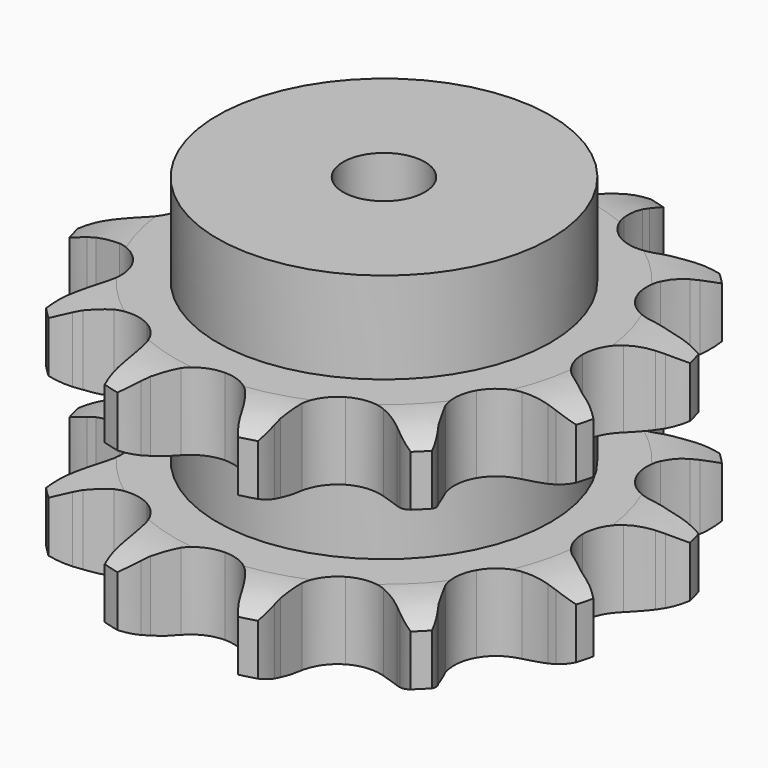
from build123d import *

# Parameters (mm, degrees)
PAD_DEPTH         = 72
SKETCH001_R       = 51
PAD001_DEPTH      = 100
SKETCH002_R       = 12.5
POCKET_DEPTH      = 0.001
POCKET_DEPTH_BACK = 100.001


with BuildPart() as part:
    # Sprocket → Pad (new body)
    with BuildSketch(Plane.XY):
        with BuildLine():
            ThreePointArc((-21.955666, 81.93966), (-18.069498, 78.407779), (-15.156646, 74.038365))
            Line((-15.156646, 74.038365), (-14.03252, 71.800045))
            ThreePointArc((-14.03252, 71.800045), (-12.10667, 68.464376), (-9.806595, 65.374838))
            ThreePointArc((-9.806595, 65.374838), (-5.41019, 62.001358), (0, 60.801948))
            ThreePointArc((0, 60.801948), (5.41019, 62.001358), (9.806595, 65.374838))
            ThreePointArc((9.806595, 65.374838), (12.10667, 68.464376), (14.03252, 71.800045))
            Line((14.03252, 71.800045), (15.156646, 74.038365))
            ThreePointArc((15.156646, 74.038365), (18.069498, 78.407779), (21.955666, 81.93966))
            ThreePointArc((21.955666, 81.93966), (23.555246, 76.937877), (23.893142, 71.697428))
            Line((23.893142, 71.697428), (23.747504, 69.196923))
            ThreePointArc((23.747504, 69.196923), (23.747504, 65.345224), (24.194659, 61.519568))
            ThreePointArc((24.194659, 61.519568), (26.315317, 56.399846), (30.400974, 52.656032))
            ThreePointArc((30.400974, 52.656032), (35.686041, 50.989656), (41.180179, 51.712973))
            Line((41.180179, 51.712973), (48.052541, 55.164403))
            ThreePointArc((48.052541, 55.164403), (49.085867, 55.872381), (50.145223, 56.540782))
            ThreePointArc((50.145223, 56.540782), (54.852533, 58.86838), (59.983994, 59.983994))
            ThreePointArc((59.983994, 59.983994), (58.86838, 54.852533), (56.540782, 50.145223))
            Line((56.540782, 50.145223), (55.164403, 48.052541))
            ThreePointArc((55.164403, 48.052541), (53.238554, 44.716872), (51.712973, 41.180179))
            ThreePointArc((51.712973, 41.180179), (50.989656, 35.686041), (52.656032, 30.400974))
            ThreePointArc((52.656032, 30.400974), (56.399846, 26.315317), (61.519568, 24.194659))
            Line((61.519568, 24.194659), (69.196923, 23.747504))
            ThreePointArc((69.196923, 23.747504), (70.445798, 23.843968), (71.697428, 23.893142))
            ThreePointArc((71.697428, 23.893142), (76.937877, 23.555246), (81.93966, 21.955666))
            ThreePointArc((81.93966, 21.955666), (78.407779, 18.069498), (74.038365, 15.156646))
            Line((74.038365, 15.156646), (71.800045, 14.03252))
            ThreePointArc((71.800045, 14.03252), (68.464376, 12.10667), (65.374838, 9.806595))
            ThreePointArc((65.374838, 9.806595), (62.001358, 5.41019), (60.801948, 0))
            ThreePointArc((60.801948, 0), (62.001358, -5.41019), (65.374838, -9.806595))
            Line((65.374838, -9.806595), (71.800045, -14.03252))
            ThreePointArc((71.800045, -14.03252), (72.929835, -14.573417), (74.038365, -15.156646))
            ThreePointArc((74.038365, -15.156646), (78.407779, -18.069498), (81.93966, -21.955666))
            ThreePointArc((81.93966, -21.955666), (76.937877, -23.555246), (71.697428, -23.893142))
            Line((71.697428, -23.893142), (69.196923, -23.747504))
            ThreePointArc((69.196923, -23.747504), (65.345224, -23.747504), (61.519568, -24.194659))
            ThreePointArc((61.519568, -24.194659), (56.399846, -26.315317), (52.656032, -30.400974))
            ThreePointArc((52.656032, -30.400974), (50.989656, -35.686041), (51.712973, -41.180179))
            Line((51.712973, -41.180179), (55.164403, -48.052541))
            ThreePointArc((55.164403, -48.052541), (55.872381, -49.085867), (56.540782, -50.145223))
            ThreePointArc((56.540782, -50.145223), (58.86838, -54.852533), (59.983994, -59.983994))
            ThreePointArc((59.983994, -59.983994), (54.852533, -58.86838), (50.145223, -56.540782))
            Line((50.145223, -56.540782), (48.052541, -55.164403))
            ThreePointArc((48.052541, -55.164403), (44.716872, -53.238554), (41.180179, -51.712973))
            ThreePointArc((41.180179, -51.712973), (35.686041, -50.989656), (30.400974, -52.656032))
            ThreePointArc((30.400974, -52.656032), (26.315317, -56.399846), (24.194659, -61.519568))
            Line((24.194659, -61.519568), (23.747504, -69.196923))
            ThreePointArc((23.747504, -69.196923), (23.843968, -70.445798), (23.893142, -71.697428))
            ThreePointArc((23.893142, -71.697428), (23.555246, -76.937877), (21.955666, -81.93966))
            ThreePointArc((21.955666, -81.93966), (18.069498, -78.407779), (15.156646, -74.038365))
            Line((15.156646, -74.038365), (14.03252, -71.800045))
            ThreePointArc((14.03252, -71.800045), (12.10667, -68.464376), (9.806595, -65.374838))
            ThreePointArc((9.806595, -65.374838), (5.41019, -62.001358), (0, -60.801948))
            ThreePointArc((0, -60.801948), (-5.41019, -62.001358), (-9.806595, -65.374838))
            Line((-9.806595, -65.374838), (-14.03252, -71.800045))
            ThreePointArc((-14.03252, -71.800045), (-14.573417, -72.929835), (-15.156646, -74.038365))
            ThreePointArc((-15.156646, -74.038365), (-18.069498, -78.407779), (-21.955666, -81.93966))
            ThreePointArc((-21.955666, -81.93966), (-23.555246, -76.937877), (-23.893142, -71.697428))
            Line((-23.893142, -71.697428), (-23.747504, -69.196923))
            ThreePointArc((-23.747504, -69.196923), (-23.747504, -65.345224), (-24.194659, -61.519568))
            ThreePointArc((-24.194659, -61.519568), (-26.315317, -56.399846), (-30.400974, -52.656032))
            ThreePointArc((-30.400974, -52.656032), (-35.686041, -50.989656), (-41.180179, -51.712973))
            Line((-41.180179, -51.712973), (-48.052541, -55.164403))
            ThreePointArc((-48.052541, -55.164403), (-49.085867, -55.872381), (-50.145223, -56.540782))
            ThreePointArc((-50.145223, -56.540782), (-54.852533, -58.86838), (-59.983994, -59.983994))
            ThreePointArc((-59.983994, -59.983994), (-58.86838, -54.852533), (-56.540782, -50.145223))
            Line((-56.540782, -50.145223), (-55.164403, -48.052541))
            ThreePointArc((-55.164403, -48.052541), (-53.238554, -44.716872), (-51.712973, -41.180179))
            ThreePointArc((-51.712973, -41.180179), (-50.989656, -35.686041), (-52.656032, -30.400974))
            ThreePointArc((-52.656032, -30.400974), (-56.399846, -26.315317), (-61.519568, -24.194659))
            Line((-61.519568, -24.194659), (-69.196923, -23.747504))
            ThreePointArc((-69.196923, -23.747504), (-70.445798, -23.843968), (-71.697428, -23.893142))
            ThreePointArc((-71.697428, -23.893142), (-76.937877, -23.555246), (-81.93966, -21.955666))
            ThreePointArc((-81.93966, -21.955666), (-78.407779, -18.069498), (-74.038365, -15.156646))
            Line((-74.038365, -15.156646), (-71.800045, -14.03252))
            ThreePointArc((-71.800045, -14.03252), (-68.464376, -12.10667), (-65.374838, -9.806595))
            ThreePointArc((-65.374838, -9.806595), (-62.001358, -5.41019), (-60.801948, 0))
            ThreePointArc((-60.801948, 0), (-62.001358, 5.41019), (-65.374838, 9.806595))
            Line((-65.374838, 9.806595), (-71.800045, 14.03252))
            ThreePointArc((-71.800045, 14.03252), (-72.929835, 14.573417), (-74.038365, 15.156646))
            ThreePointArc((-74.038365, 15.156646), (-78.407779, 18.069498), (-81.93966, 21.955666))
            ThreePointArc((-81.93966, 21.955666), (-76.937877, 23.555246), (-71.697428, 23.893142))
            Line((-71.697428, 23.893142), (-69.196923, 23.747504))
            ThreePointArc((-69.196923, 23.747504), (-65.345224, 23.747504), (-61.519568, 24.194659))
            ThreePointArc((-61.519568, 24.194659), (-56.399846, 26.315317), (-52.656032, 30.400974))
            ThreePointArc((-52.656032, 30.400974), (-50.989656, 35.686041), (-51.712973, 41.180179))
            Line((-51.712973, 41.180179), (-55.164403, 48.052541))
            ThreePointArc((-55.164403, 48.052541), (-55.872381, 49.085867), (-56.540782, 50.145223))
            ThreePointArc((-56.540782, 50.145223), (-58.86838, 54.852533), (-59.983994, 59.983994))
            ThreePointArc((-59.983994, 59.983994), (-54.852533, 58.86838), (-50.145223, 56.540782))
            Line((-50.145223, 56.540782), (-48.052541, 55.164403))
            ThreePointArc((-48.052541, 55.164403), (-44.716872, 53.238554), (-41.180179, 51.712973))
            ThreePointArc((-41.180179, 51.712973), (-35.686041, 50.989656), (-30.400974, 52.656032))
            ThreePointArc((-30.400974, 52.656032), (-26.315317, 56.399846), (-24.194659, 61.519568))
            Line((-24.194659, 61.519568), (-23.747504, 69.196923))
            ThreePointArc((-23.747504, 69.196923), (-23.843968, 70.445798), (-23.893142, 71.697428))
            ThreePointArc((-23.893142, 71.697428), (-23.555246, 76.937877), (-21.955666, 81.93966))
        make_face()
    extrude(amount=PAD_DEPTH)

    # Sketch → Groove (revolve, cut)
    with BuildSketch(Plane.XZ):
        with BuildLine():
            ThreePointArc((64.029437, 0), (72.747235, 1.013516), (81, 4))
            Line((81, 4), (81, 19.6))
            ThreePointArc((81, 19.6), (72.747235, 22.586484), (64.029437, 23.6))
            Line((51, 23.6), (64.029437, 23.6))
            Line((51, 48.4), (51, 23.6))
            Line((64.029437, 48.4), (51, 48.4))
            ThreePointArc((64.029437, 48.4), (72.747235, 49.413516), (81, 52.4))
            Line((81, 52.4), (81, 68))
            ThreePointArc((81, 68), (72.747235, 70.986484), (64.029437, 72))
            Line((64.029437, 72), (91, 72))
            Line((91, 72), (91, 0))
            Line((64.029437, 0), (91, 0))
        make_face()
    revolve(axis=Axis((0, 0, 0), (0, 0, 1)), mode=Mode.SUBTRACT)

    # Sketch001 → Pad001 (join)
    with BuildSketch(Plane.XY):
        Circle(SKETCH001_R)
    extrude(amount=PAD001_DEPTH)

    # Sketch002 → Pocket (cut, two sides)
    with BuildSketch(Plane.XY) as pocket_sk:
        Circle(SKETCH002_R)
    extrude(amount=-POCKET_DEPTH, mode=Mode.SUBTRACT)
    extrude(pocket_sk.sketch, amount=POCKET_DEPTH_BACK, mode=Mode.SUBTRACT)


solid = part.part
